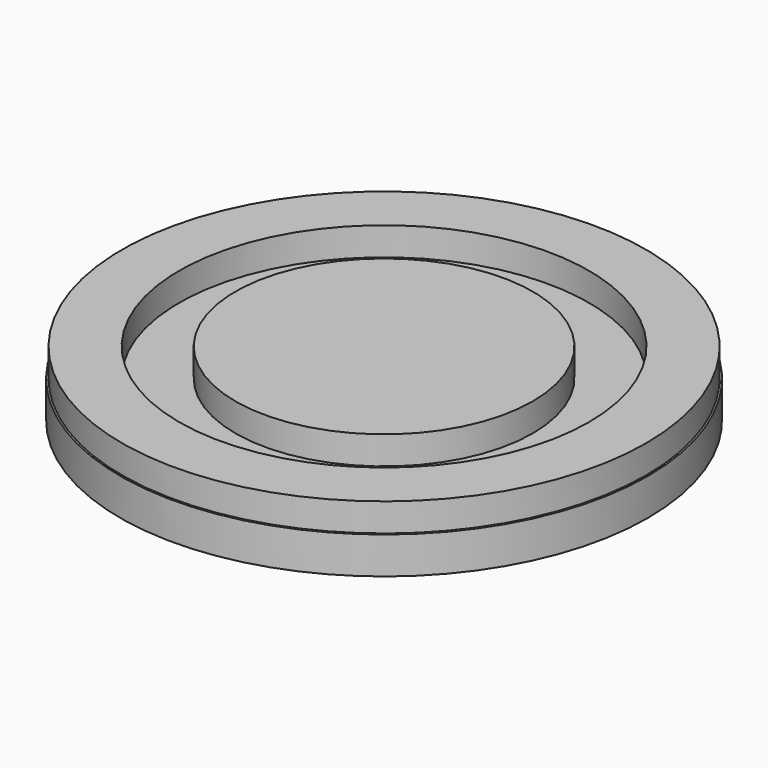
from build123d import *

# Parameters (mm, degrees)
F0_R     = 91.967222
F0_R_2   = 71.923633
F0_R_3   = 52.173264
F1_DEPTH = 22.86
F2_R     = 92.629016
F3_DEPTH = 12.954


with BuildPart() as f1:
    # F0 (on Top) → F1 (new body)
    with BuildSketch(Plane.XY):
        Circle(F0_R)
        Circle(F0_R_2, mode=Mode.SUBTRACT)
        Circle(F0_R_3)
    extrude(amount=F1_DEPTH)


with BuildPart() as f3:
    # F2 (on Top) → F3 (new body)
    with BuildSketch(Plane.XY):
        Circle(F2_R)
    extrude(amount=F3_DEPTH)


solid = Compound([f1.part, f3.part])
